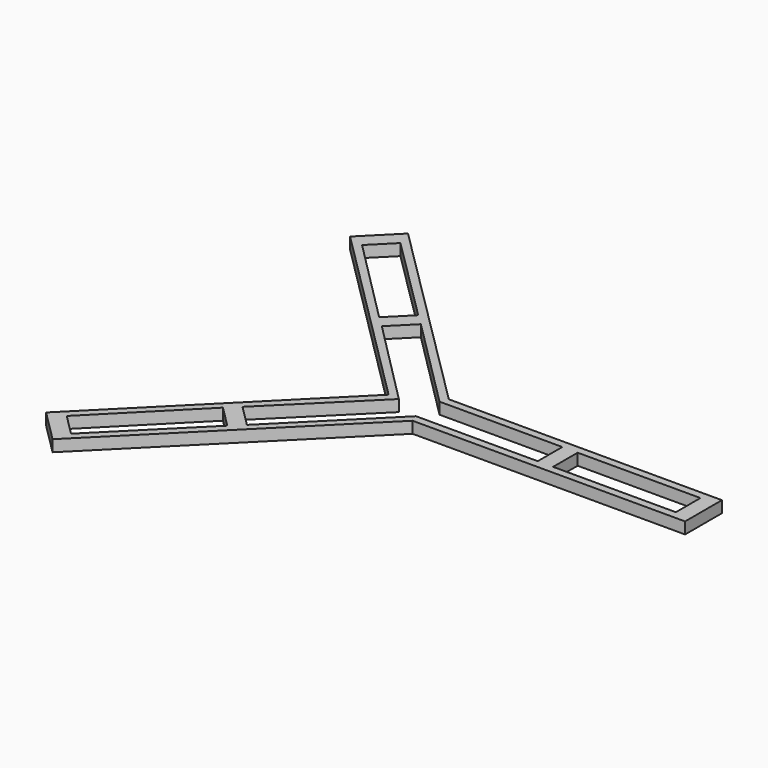
from build123d import *

# Parameters (mm, degrees)
F0_W     = 101.6
F0_H     = 25.4
F1_DEPTH = 9.525


with BuildPart() as f1:
    # F0 (on Top) → F1 (new body)
    with BuildSketch(Plane.XY):
        Polygon((-157.645054, 179.173873), (-175.267478, 161.506097), (-179.751833, 157.010203), (-22.079604, -0.257338), (-179.347144, -157.929566), (-174.851251, -162.413921), (-157.183479, -180.03635), (-152.693351, -184.526479), (12.783127, -19.05), (238.290359, -19.05), (238.290359, -12.7), (238.290359, 12.7), (238.290359, 19.05), (12.307383, 19.05), (-153.16648, 183.675526), align=None)
        Polygon((-165.882541, -153.422133), (-94.344681, -81.276558), (-76.361107, -99.213979), (-148.214769, -171.044564), align=None, mode=Mode.SUBTRACT)
        Polygon((-67.180604, -90.433441), (-85.164157, -72.496041), (-13.101294, -0.875487), (-85.349598, 71.819004), (-67.412202, 89.802561), (9.690359, 12.7), (111.290359, 12.7), (111.290359, -12.7), (10.552837, -12.7), align=None, mode=Mode.SUBTRACT)
        Polygon((-76.61524, 98.559477), (-94.552657, 80.575898), (-166.27569, 152.537388), (-148.653264, 170.205165), align=None, mode=Mode.SUBTRACT)
        with Locations((174.790359, 0)):
            Rectangle(F0_W, F0_H, mode=Mode.SUBTRACT)
    extrude(amount=F1_DEPTH)


solid = f1.part
